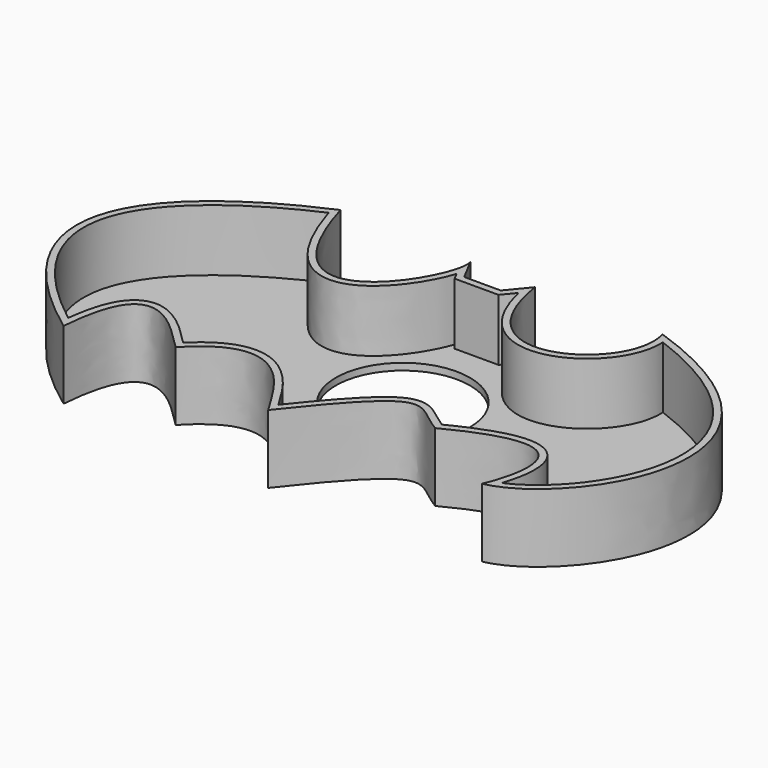
from build123d import *

# Parameters (mm, degrees)
F1_DEPTH = 10
F2_T     = -1
F3_R     = 9.7810877723
F4_DEPTH = 25


with BuildPart() as f1:
    # F0 (on Top) → F1 (new body)
    with BuildSketch(Plane.XY):
        with BuildLine():
            add(Edge.make_bspline(
                [(-4.9218744971, 20.7128915936), (-3.076172201, 17.2265637666), (-16.4062511176, -6.1523439363), (-24.4042985141, 21.3281270117)],
                knots=[0, 0, 0, 0, 19.4921358552, 19.4921358552, 19.4921358552, 19.4921358552], degree=3))
            add(Edge.make_bspline(
                [(-24.4042985141, 21.3281270117), (-27.8906263411, 19.687499851), (-65.6250044703, 4.5117191039), (-31.1718769372, -20.7128915936)],
                knots=[0, 0, 0, 0, 42.5822423444, 42.5822423444, 42.5822423444, 42.5822423444], degree=3))
            add(Edge.make_bspline(
                [(-31.1718769372, -20.7128915936), (-29.7363288701, -2.255859552), (-20.1921107419, -14.9746890326), (-17.9362518884, -16.8203934242)],
                knots=[0, 0, 0, 0, 13.7961339668, 13.7961339668, 13.7961339668, 13.7961339668], degree=3))
            add(Edge.make_bspline(
                [(-17.9362518884, -16.8203934242), (-7.6117922963, -5.8536060756), (-2.0103123544, -19.5961248124), (0, -22.353515029)],
                knots=[0, 0, 0, 0, 18.7703107725, 18.7703107725, 18.7703107725, 18.7703107725], degree=3))
            add(Edge.make_bspline(
                [(0, -22.353515029), (12.714844197, -6.0673846116), (12.3046888039, -10.8691407368), (17.6367182285, -13.9453122392)],
                knots=[0, 0, 0, 0, 19.5384672895, 19.5384672895, 19.5384672895, 19.5384672895], degree=3))
            add(Edge.make_bspline(
                [(17.6367182285, -13.9453122392), (37.3242199421, -3.6914064549), (31.1718769372, -19.687499851), (30.3515642881, -21.3281270117)],
                knots=[0, 0, 0, 0, 14.7028318458, 14.7028318458, 14.7028318458, 14.7028318458], degree=3))
            add(Edge.make_bspline(
                [(23.3789067715, 20.3027352691), (59.2675805092, 7.9980469309), (41.4257831872, -19.2773453891), (30.3515642881, -21.3281270117)],
                knots=[0, 0, 0, 0, 42.2107408971, 42.2107408971, 42.2107408971, 42.2107408971], degree=3))
            add(Edge.make_bspline(
                [(23.3789067715, 20.3027352691), (26.1724328639, 10.8691425994), (7.9098053966, 0), (4.7924631712, 20.3027352691)],
                knots=[0, 0, 0, 0, 18.5864436003, 18.5864436003, 18.5864436003, 18.5864436003], degree=3))
            Line((4.7924631712, 20.3027352691), (2.2558588535, 17.2265637666))
            Line((2.2558588535, 17.2265637666), (-3.076172201, 17.2265637666))
            Line((-3.076172201, 17.2265637666), (-4.9218744971, 20.7128915936))
        make_face()
    extrude(amount=F1_DEPTH)

    # F2
    f2_openings = [f1.faces().sort_by_distance(p)[0] for p in [
        (-0.575583, -0.131271, 10),
    ]]
    offset(amount=F2_T, openings=f2_openings, kind=Kind.INTERSECTION)

    # F3 (on face) → F4 (cut)
    with BuildSketch(Plane.XY.offset(1)):
        with Locations((0, 2.1961873863)):
            Circle(F3_R)
    extrude(amount=-F4_DEPTH, mode=Mode.SUBTRACT)


solid = f1.part
